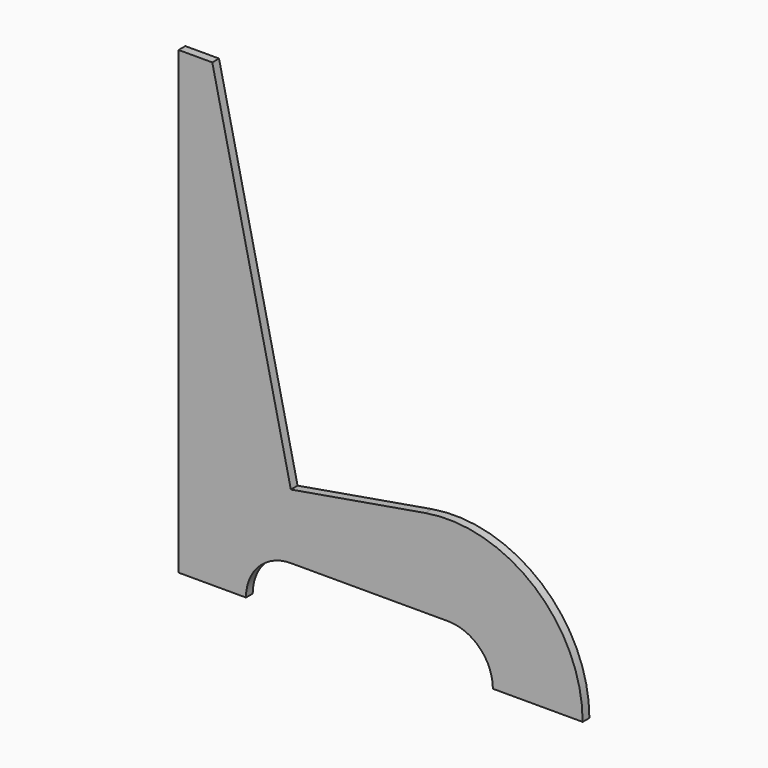
from build123d import *

# Parameters (mm, degrees)
F1_DEPTH = 19.05


with BuildPart() as f1:
    # F0 (on Front) → F1 (new body)
    with BuildSketch(Plane.XZ):
        with BuildLine():
            Line((0, 1041.4), (0, 0))
            Line((0, 0), (152.4, 0))
            ThreePointArc((152.4, 0), (182.157951, 71.842049), (254, 101.6))
            Line((254, 101.6), (609.6, 101.6))
            ThreePointArc((609.6, 101.6), (681.442049, 71.842049), (711.2, 0))
            Line((711.2, 0), (914.4, 0))
            ThreePointArc((914.4, 0), (806.075816, 233.024234), (558.09886, 300.417497))
            Line((558.09886, 300.417497), (254, 248.285254))
            Line((254, 248.285254), (76.2, 1041.4))
            Line((76.2, 1041.4), (0, 1041.4))
        make_face()
    extrude(amount=F1_DEPTH)


solid = f1.part
